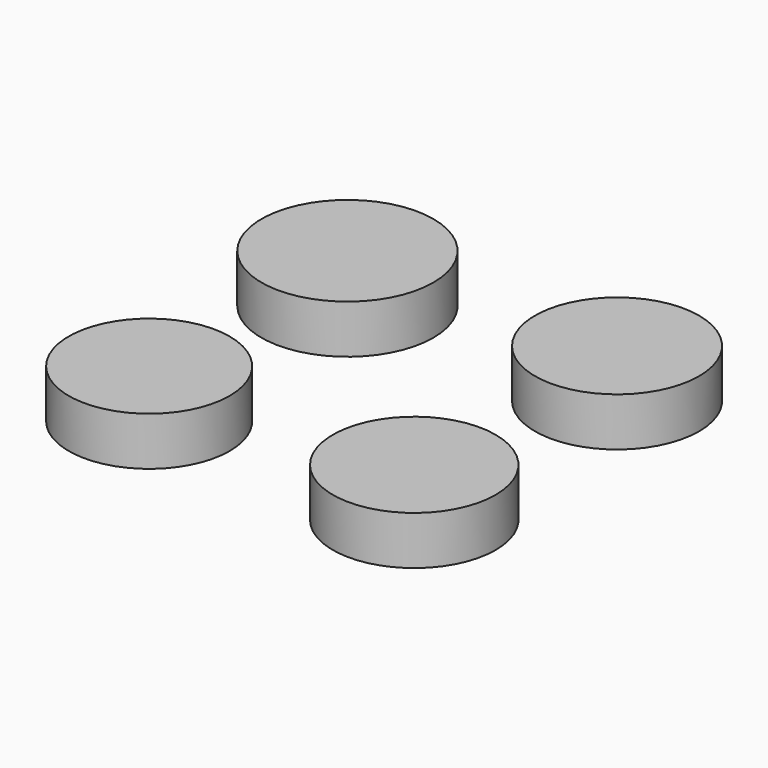
from build123d import *

# Parameters (mm, degrees)
F0_R     = 25.194924
F0_R_2   = 24.025589
F0_R_3   = 23.571473
F0_R_4   = 23.840062
F1_DEPTH = 14.224


with BuildPart() as f1:
    # F0 (on Top) → F1 (new body)
    with BuildSketch(Plane.XY):
        with Locations((-40.593624, 34.009214)):
            Circle(F0_R)
        with Locations((36.977343, 35.745878)):
            Circle(F0_R_2)
        with Locations((-40.30418, -38.930651)):
            Circle(F0_R_3)
        with Locations((37.556231, -39.220095)):
            Circle(F0_R_4)
    extrude(amount=F1_DEPTH)


solid = f1.part
